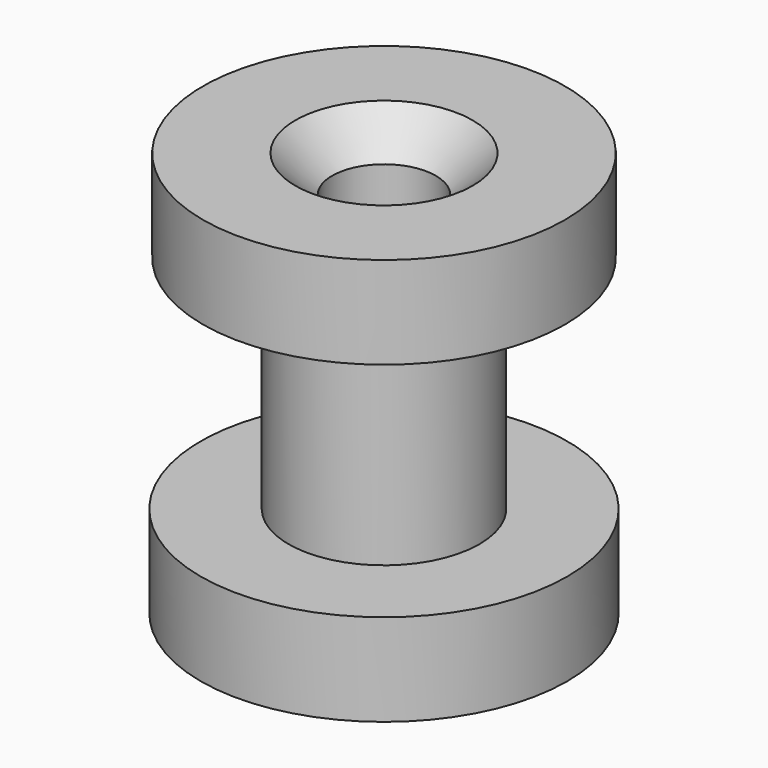
from build123d import *

# Parameters (mm, degrees)
F0_R     = 12.630129
F1_DEPTH = 6.35
F2_R     = 6.581493
F3_DEPTH = 15.24
F4_R     = 12.475408
F5_DEPTH = 6.35
F6_R     = 3.570848
F7_DEPTH = 27.941
F8_SIZE  = 2.54


with BuildPart() as f1:
    # F0 (on Top) → F1 (new body)
    with BuildSketch(Plane.XY):
        Circle(F0_R)
    extrude(amount=F1_DEPTH)

    # F2 (on face) → F3 (join)
    with BuildSketch(Plane.XY.offset(6.35)):
        Circle(F2_R)
    extrude(amount=F3_DEPTH)

    # F4 (on face) → F5 (join)
    with BuildSketch(Plane.XY.offset(21.59)):
        Circle(F4_R)
    extrude(amount=F5_DEPTH)

    # F6 (on face) → F7 (cut, through all)
    with BuildSketch(Plane.XY.offset(27.94)):
        Circle(F6_R)
    extrude(amount=-F7_DEPTH, mode=Mode.SUBTRACT)

    # F8
    f8_edges = [f1.edges().sort_by_distance(p)[0] for p in [
        (-3.570848, 0, 27.94),
        (-3.570848, 0, 0),
    ]]
    chamfer(f8_edges, length=F8_SIZE)


solid = f1.part
